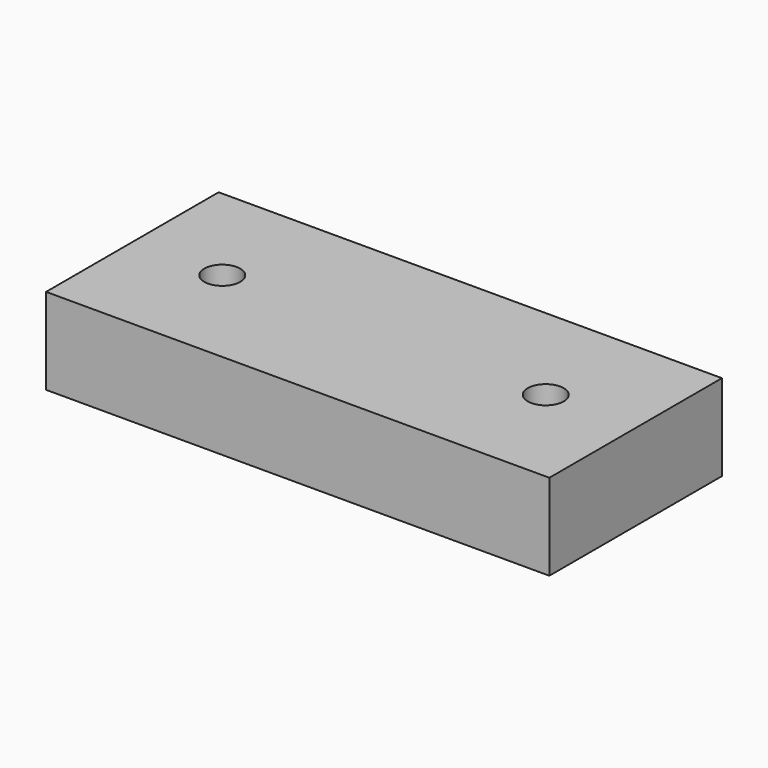
from build123d import *

# Parameters (mm, degrees)
F0_W     = 70
F0_H     = 30
F1_DEPTH = 12
F3_D     = 5
F3_DEPTH = 25


with BuildPart() as f1:
    # F0 (on Top) → F1 (new body)
    with BuildSketch(Plane.XY):
        Rectangle(F0_W, F0_H)
    extrude(amount=F1_DEPTH)

    # F3
    with Locations(Plane.XY.offset(12)):
        with Locations((-22.5, 0), (22.5, 0)):
            Hole(F3_D / 2, depth=F3_DEPTH)


solid = f1.part
